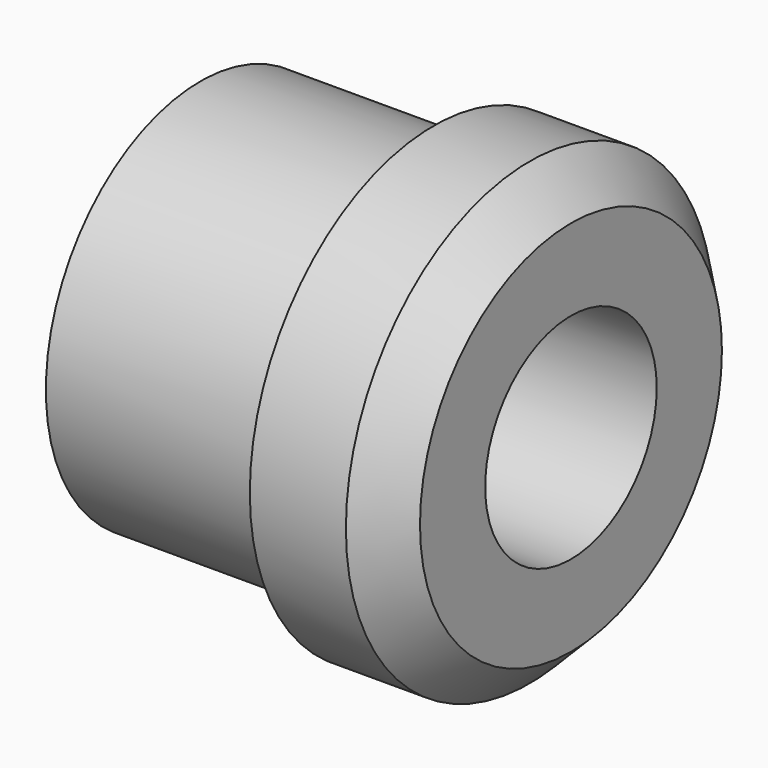
from build123d import *

# Parameters (mm, degrees)
F0_R     = 7.1501
F0_R_2   = 3.96875
F1_DEPTH = 13.716
F0_R_3   = 8.509
F2_DEPTH = 5.08
F3_SIZE  = 1.524


with BuildPart() as f1:
    # F0 (on Right) → F1 (new body)
    with BuildSketch(Plane.YZ):
        Circle(F0_R)
        Circle(F0_R_2, mode=Mode.SUBTRACT)
    extrude(amount=-F1_DEPTH)

    # F0 (on Right) → F2 (join)
    with BuildSketch(Plane.YZ):
        Circle(F0_R_3)
        Circle(F0_R, mode=Mode.SUBTRACT)
    extrude(amount=-F2_DEPTH)

    # F3
    f3_edges = [f1.edges().sort_by_distance(p)[0] for p in [
        (0, -8.509, 0),
    ]]
    chamfer(f3_edges, length=F3_SIZE)


solid = f1.part
